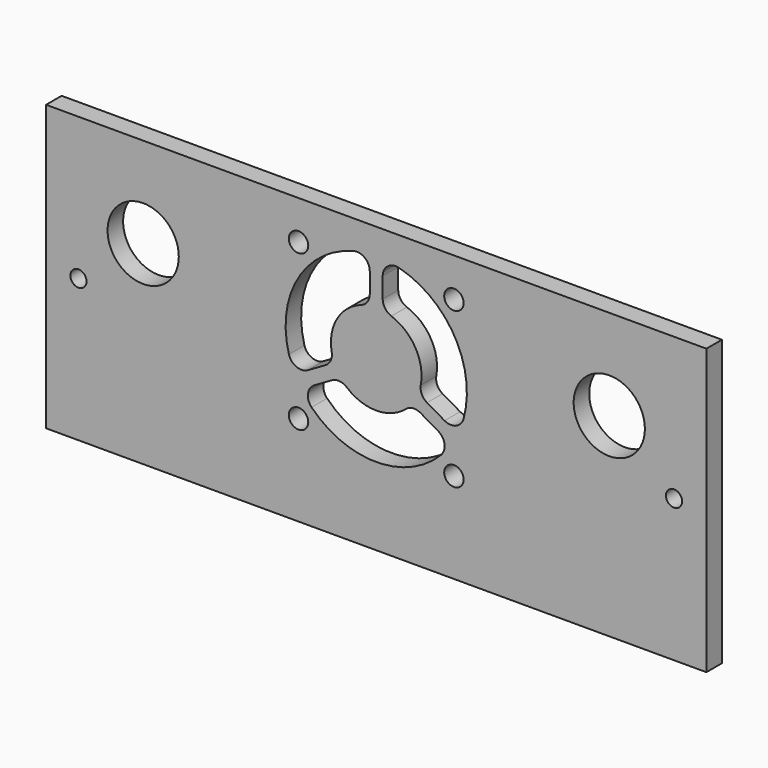
from build123d import *

# Parameters (mm, degrees)
SKETCH_W        = 102
SKETCH_H        = 44
SKETCH_R        = 1.25
PAD_DEPTH       = 3
SKETCH001_R     = 5.5
POCKET_DEPTH    = 3.001
SKETCH002_R     = 1.5
POCKET001_DEPTH = 3.001
POCKET002_DEPTH = 3.001
FILLET_R        = 2


with BuildPart() as part:
    # Sketch → Pad (new body)
    with BuildSketch(Plane.XZ):
        with Locations((51, 22)):
            Rectangle(SKETCH_W, SKETCH_H)
        with Locations((5, 22)):
            Circle(SKETCH_R, mode=Mode.SUBTRACT)
        with Locations((97, 22)):
            Circle(SKETCH_R, mode=Mode.SUBTRACT)
    extrude(amount=PAD_DEPTH)

    # Sketch001 (on Face8 of Pad) → Pocket (cut, through all)
    with BuildSketch(Plane.XZ.offset(3)):
        with Locations((15, 30)):
            Circle(SKETCH001_R)
        with Locations((87, 30)):
            Circle(SKETCH001_R)
    extrude(amount=-POCKET_DEPTH, mode=Mode.SUBTRACT)

    # Sketch002 (on Face5 of Pocket) → Pocket001 (cut, through all)
    with BuildSketch(Plane.XZ.offset(3)):
        with Locations((39, 38)):
            Circle(SKETCH002_R)
        with Locations((63, 38)):
            Circle(SKETCH002_R)
        with Locations((39, 14)):
            Circle(SKETCH002_R)
        with Locations((63, 14)):
            Circle(SKETCH002_R)
    extrude(amount=-POCKET001_DEPTH, mode=Mode.SUBTRACT)

    # Sketch003 (on Face5 of Pocket001) → Pocket002 (cut, through all)
    with BuildSketch(Plane.XZ.offset(3)):
        with BuildLine():
            Line((50, 39.96424), (50, 32.928203))
            ThreePointArc((50, 32.928203), (44.937661, 29.499721), (44.500239, 23.401325))
            Line((38.406893, 19.88333), (44.500239, 23.401325))
            ThreePointArc((50, 39.96424), (38.875484, 32.999723), (38.406893, 19.88333))
        make_face()
        with BuildLine():
            Line((39.406972, 18.151325), (45.500399, 21.669367))
            ThreePointArc((45.500399, 21.669367), (51.000645, 19), (56.500399, 21.670379))
            Line((56.500399, 21.670379), (62.593745, 18.152384))
            ThreePointArc((39.406972, 18.151325), (51.00064, 12), (62.593745, 18.152384))
        make_face()
        with BuildLine():
            Line((57.500239, 23.402522), (63.593666, 19.884481))
            ThreePointArc((63.593666, 19.884481), (63.124196, 33.000277), (52, 39.96424))
            Line((52, 32.928203), (52, 39.96424))
            ThreePointArc((57.500239, 23.402522), (57.062017, 29.500279), (52, 32.928203))
        make_face()
    extrude(amount=-POCKET002_DEPTH, mode=Mode.SUBTRACT)

    # Fillet
    fillet_edges = [part.edges().sort_by_distance(p)[0] for p in [
        (44.500239, -1.5, 23.401325),
        (50, -1.5, 32.928203),
        (63.593666, -1.5, 19.884481),
        (56.500399, -1.5, 21.670379),
        (52, -1.5, 39.96424),
        (39.406972, -1.5, 18.151325),
        (62.593745, -1.5, 18.152384),
        (45.500399, -1.5, 21.669367),
        (50, -1.5, 39.96424),
        (38.406893, -1.5, 19.88333),
        (52, -1.5, 32.928203),
        (57.500239, -1.5, 23.402522),
    ]]
    fillet(fillet_edges, radius=FILLET_R)


solid = part.part
